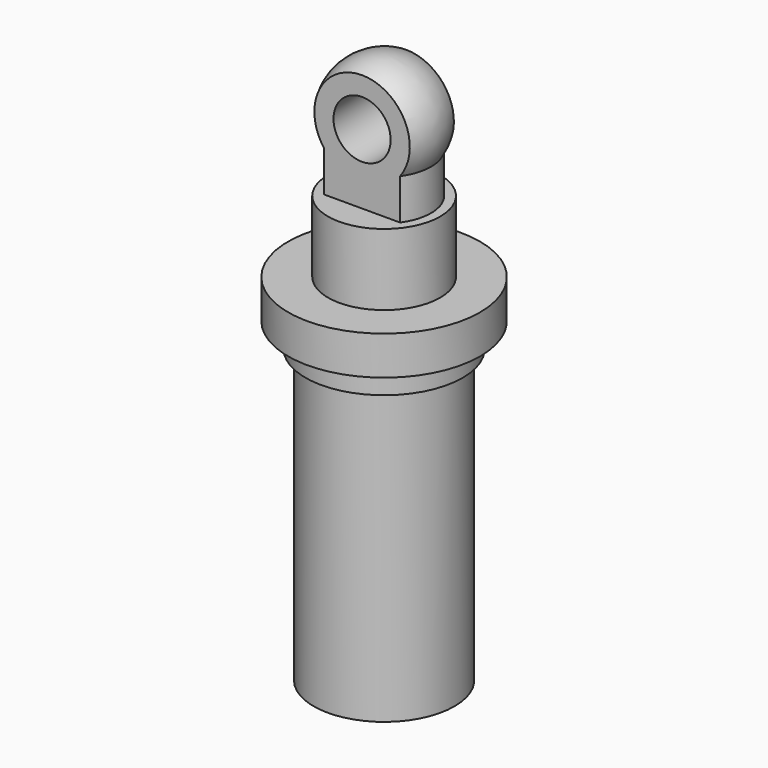
from build123d import *

# Parameters (mm, degrees)
F3_DEPTH      = 5.97
F3_DEPTH_BACK = 5.97
F4_R          = 1.778
F5_DEPTH      = 5.97
F5_DEPTH_BACK = 5.97


with BuildPart() as f1:
    # F0 (on Front) → F1 (revolve)
    with BuildSketch(Plane.XZ):
        with BuildLine():
            Line((0, 26.543), (0, 0))
            Line((0, 0), (4.3815, 0))
            Line((4.3815, 0), (4.3815, 18.161))
            Line((4.3815, 18.161), (4.8895, 18.161))
            Line((4.8895, 18.161), (4.8895, 19.685))
            Line((4.8895, 19.685), (5.969, 19.685))
            Line((5.969, 19.685), (5.969, 20.828))
            Line((5.969, 20.828), (5.969, 22.098))
            Line((5.969, 22.098), (3.4925, 22.098))
            Line((3.4925, 22.098), (3.4925, 26.543))
            Line((3.4925, 26.543), (2.921, 26.543))
            Line((2.921, 26.543), (2.921, 29.083))
            ThreePointArc((2.921, 29.083), (2.9930503377, 32.5522788465), (0, 34.3080512242))
            Line((0, 34.3080512242), (0, 26.543))
        make_face()
    revolve(axis=Axis((0, 0, 28.8581177592), (0, 0, -1)))

    # F2 (on Right) → F3 (cut, two sides)
    with BuildSketch(Plane.YZ) as f3_sk:
        Polygon((-3.4925, 26.543), (-1.7145, 26.543), (-1.7145, 36.703), (-6.1595, 36.703), (-6.1595, 26.543), align=None)
        Polygon((3.4925, 26.543), (6.1595, 26.543), (6.1595, 36.703), (1.7145, 36.703), (1.7145, 26.543), align=None)
    extrude(amount=F3_DEPTH, mode=Mode.SUBTRACT)
    extrude(f3_sk.sketch, amount=-F3_DEPTH_BACK, mode=Mode.SUBTRACT)

    # F4 (on Front) → F5 (cut, two sides)
    with BuildSketch(Plane.XZ) as f5_sk:
        with Locations((0, 30.8790512242)):
            Circle(F4_R)
    extrude(amount=-F5_DEPTH, mode=Mode.SUBTRACT)
    extrude(f5_sk.sketch, amount=F5_DEPTH_BACK, mode=Mode.SUBTRACT)


solid = f1.part
